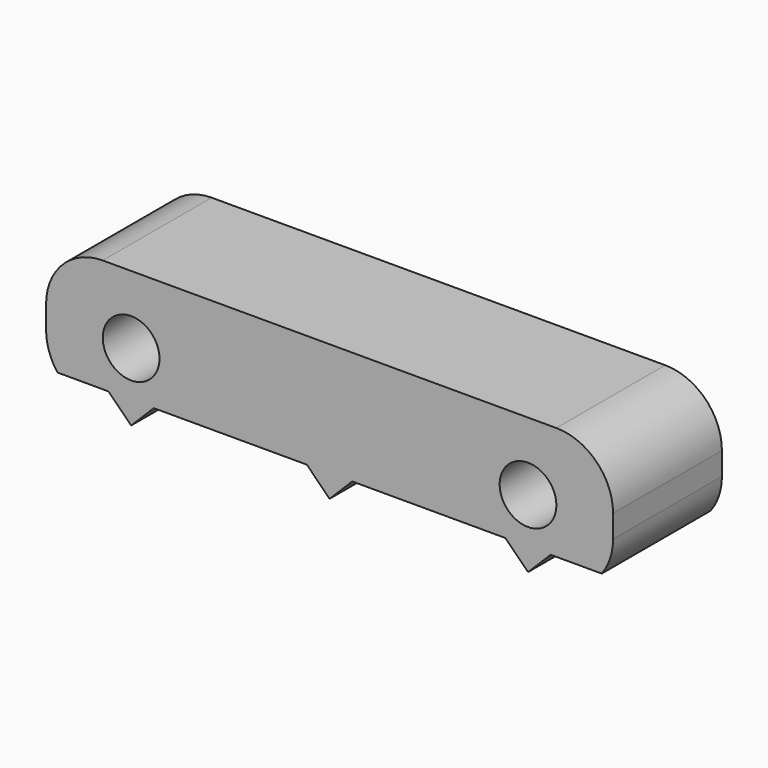
from build123d import *

# Parameters (mm, degrees)
F0_W     = 50
F0_H     = 12
F0_R     = 2.5
F1_DEPTH = 12
F2_R     = 5
F4_DEPTH = 25


with BuildPart() as f1:
    # F0 (on Front) → F1 (new body)
    with BuildSketch(Plane.XZ):
        Rectangle(F0_W, F0_H)
        with Locations((-17.5, 0)):
            Circle(F0_R, mode=Mode.SUBTRACT)
        with Locations((17.5, 0)):
            Circle(F0_R, mode=Mode.SUBTRACT)
    extrude(amount=F1_DEPTH)

    # F2
    f2_edges = [f1.edges().sort_by_distance(p)[0] for p in [
        (-25, -6, 6),
        (25, -6, 6),
        (25, -6, -6),
        (-25, -6, -6),
    ]]
    fillet(f2_edges, radius=F2_R)

    # F3 (on face) → F4 (cut)
    with BuildSketch(Plane.XZ.offset(12)):
        Polygon((2, -4), (0, -6), (17.5, -6), (15.5, -4), align=None)
        Polygon((-17.5, -6), (0, -6), (-2, -4), (-15.5, -4), align=None)
        with BuildLine():
            Line((19.5, -4), (17.5, -6))
            Line((17.5, -6), (20, -6))
            ThreePointArc((20, -6), (22.236068, -5.472136), (24, -4))
            Line((24, -4), (19.5, -4))
        make_face()
        with BuildLine():
            Line((-20, -6), (-17.5, -6))
            Line((-17.5, -6), (-19.5, -4))
            Line((-19.5, -4), (-24, -4))
            ThreePointArc((-24, -4), (-22.236068, -5.472136), (-20, -6))
        make_face()
    extrude(amount=-F4_DEPTH, mode=Mode.SUBTRACT)


solid = f1.part
